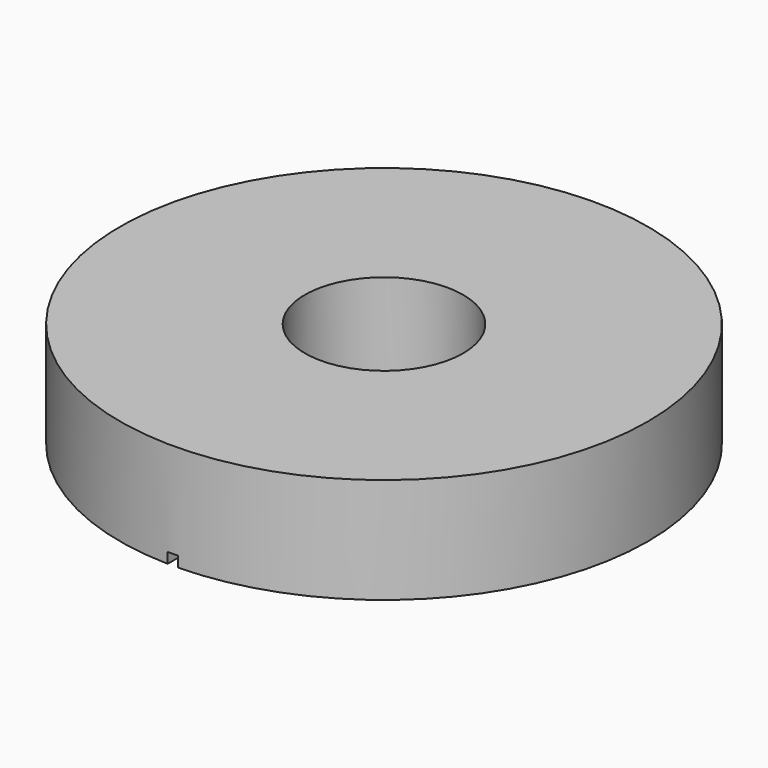
from build123d import *

# Parameters (mm, degrees)
F0_R     = 3.175
F0_R_2   = 0.9525
F1_DEPTH = 0.635
F3_DEPTH = 0.127


with BuildPart() as f1:
    # F0 (on Top) → F1 (new body, symmetric)
    with BuildSketch(Plane.XY):
        Circle(F0_R)
        Circle(F0_R_2, mode=Mode.SUBTRACT)
    extrude(amount=F1_DEPTH, both=True)

    # F2 (on face) → F3 (cut)
    with BuildSketch(Plane(origin=(0, 0, -0.635), x_dir=(1, 0, 0), z_dir=(0, 0, -1))):
        with BuildLine():
            Line((0.0635, 0.9503809762), (0.0635, 3.1743649365))
            ThreePointArc((0.0635, 3.1743649365), (0, 3.175), (-0.0635, 3.1743649365))
            Line((-0.0635, 3.1743649365), (-0.0635, 0.9503809762))
            ThreePointArc((-0.0635, 0.9503809762), (0, 0.9525), (0.0635, 0.9503809762))
        make_face()
        with BuildLine():
            Line((-0.0635, -0.9503809762), (-0.0635, -3.1743649365))
            ThreePointArc((-0.0635, -3.1743649365), (0, -3.175), (0.0635, -3.1743649365))
            Line((0.0635, -3.1743649365), (0.0635, -0.9503809762))
            ThreePointArc((0.0635, -0.9503809762), (0, -0.9525), (-0.0635, -0.9503809762))
        make_face()
        with BuildLine():
            ThreePointArc((0.0635, -3.1743649365), (0, -3.175), (-0.0635, -3.1743649365))
            Line((-0.0635, -3.1743649365), (-0.0635, -3.81))
            Line((-0.0635, -3.81), (0.0635, -3.81))
            Line((0.0635, -3.81), (0.0635, -3.1743649365))
        make_face()
        with BuildLine():
            Line((0.0635, -0.9503809762), (0.0635, 0.9503809762))
            ThreePointArc((0.0635, 0.9503809762), (0, 0.9525), (-0.0635, 0.9503809762))
            Line((-0.0635, 0.9503809762), (-0.0635, -0.9503809762))
            ThreePointArc((-0.0635, -0.9503809762), (0, -0.9525), (0.0635, -0.9503809762))
        make_face()
        with BuildLine():
            Line((0.0635, 3.1743649365), (0.0635, 3.81))
            Line((0.0635, 3.81), (-0.0635, 3.81))
            Line((-0.0635, 3.81), (-0.0635, 3.1743649365))
            ThreePointArc((-0.0635, 3.1743649365), (0, 3.175), (0.0635, 3.1743649365))
        make_face()
    extrude(amount=-F3_DEPTH, mode=Mode.SUBTRACT)


solid = f1.part
